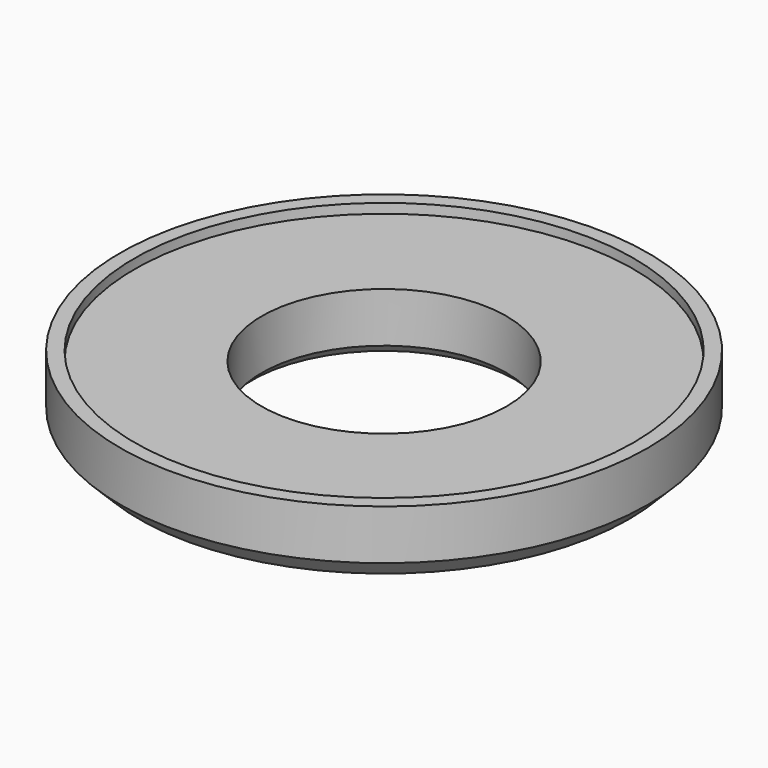
from build123d import *

# Parameters (mm, degrees)
F2_SIZE = 2
F3_SIZE = 1


with BuildPart() as f1:
    # F0 (on Front) → F1 (revolve)
    with BuildSketch(Plane.XZ):
        Polygon((12.75, 6.2), (12.75, 0), (27.5, 0), (27.5, 7.2), (26, 7.2), (26, 6.2), align=None)
    revolve(axis=Axis((0, 0, 15.391572), (0, 0, 1)))

    # F2
    f2_edges = [f1.edges().sort_by_distance(p)[0] for p in [
        (-27.5, 0, 0),
    ]]
    chamfer(f2_edges, length=F2_SIZE)

    # F3
    f3_edges = [f1.edges().sort_by_distance(p)[0] for p in [
        (-12.75, 0, 0),
    ]]
    chamfer(f3_edges, length=F3_SIZE)


solid = f1.part
